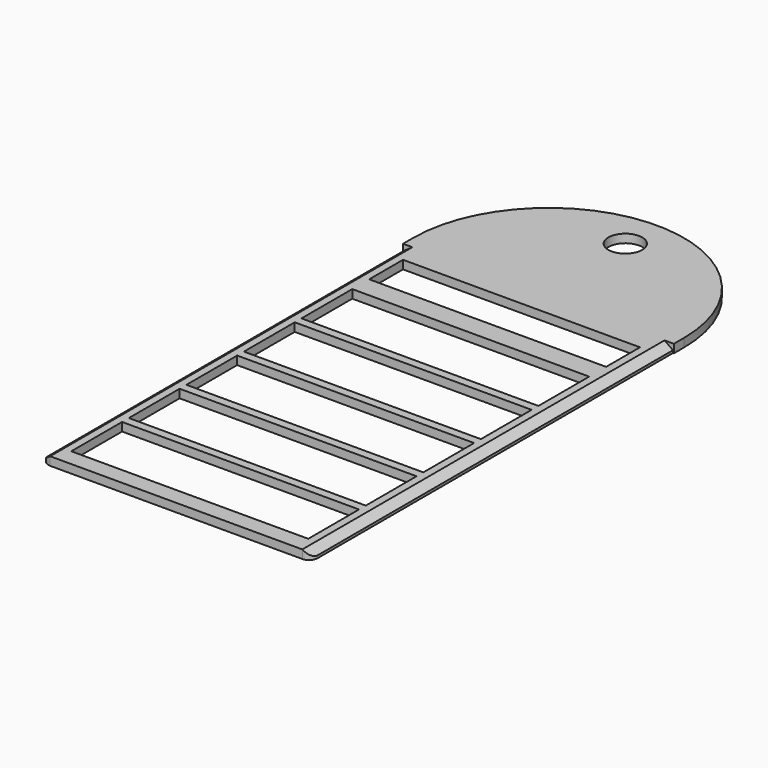
from build123d import *

# Parameters (mm, degrees)
PAD_DEPTH       = 2
SKETCH001_R     = 4
SKETCH001_W     = 56
SKETCH001_H     = 15
SKETCH001_H_2   = 10
POCKET_DEPTH    = 2.001
SKETCH002_W     = 70.645367
SKETCH002_H     = 8.666905
POCKET001_DEPTH = 107
FILLET_R        = 2


with BuildPart() as part:
    # Sketch → Pad (new body)
    with BuildSketch(Plane.XY):
        with BuildLine():
            Line((-32, 110), (-32, 0))
            Line((-32, 0), (32, 0))
            Line((32, 0), (32, 110.000041))
            ThreePointArc((32, 110.000041), (-2.1e-05, 142), (-32, 110))
        make_face()
    extrude(amount=PAD_DEPTH)

    # Sketch001 (on DatumPlane) → Pocket (cut, through all)
    with BuildSketch(Plane.XY.offset(2)):
        with Locations((0, 132.667633)):
            Circle(SKETCH001_R)
        with Locations((0, 11.5)):
            Rectangle(SKETCH001_W, SKETCH001_H)
        with Locations((0, 28.5)):
            Rectangle(SKETCH001_W, SKETCH001_H)
        with Locations((0, 45.5)):
            Rectangle(SKETCH001_W, SKETCH001_H)
        with Locations((0, 62.5)):
            Rectangle(SKETCH001_W, SKETCH001_H)
        with Locations((0, 79.5)):
            Rectangle(SKETCH001_W, SKETCH001_H)
        with Locations((0, 97)):
            Rectangle(SKETCH001_W, SKETCH001_H_2)
    extrude(amount=-POCKET_DEPTH, mode=Mode.SUBTRACT)

    # Sketch002 (on DatumPlane) → Pocket001 (cut)
    with BuildSketch(Plane.XZ):
        with Locations((-0.08378, -0.285264)):
            Rectangle(SKETCH002_W, SKETCH002_H)
        Polygon((29.8, 2), (-29.8, 2), (-31.8, 0.6), (-31.8, 0), (31.8, 0), (31.8, 0.6), align=None, mode=Mode.SUBTRACT)
    extrude(amount=-POCKET001_DEPTH, mode=Mode.SUBTRACT)

    # Fillet
    fillet_edges = [part.edges().sort_by_distance(p)[0] for p in [
        (-31.8, 0, 0.3),
        (31.8, 0, 0.3),
    ]]
    fillet(fillet_edges, radius=FILLET_R)


solid = part.part
